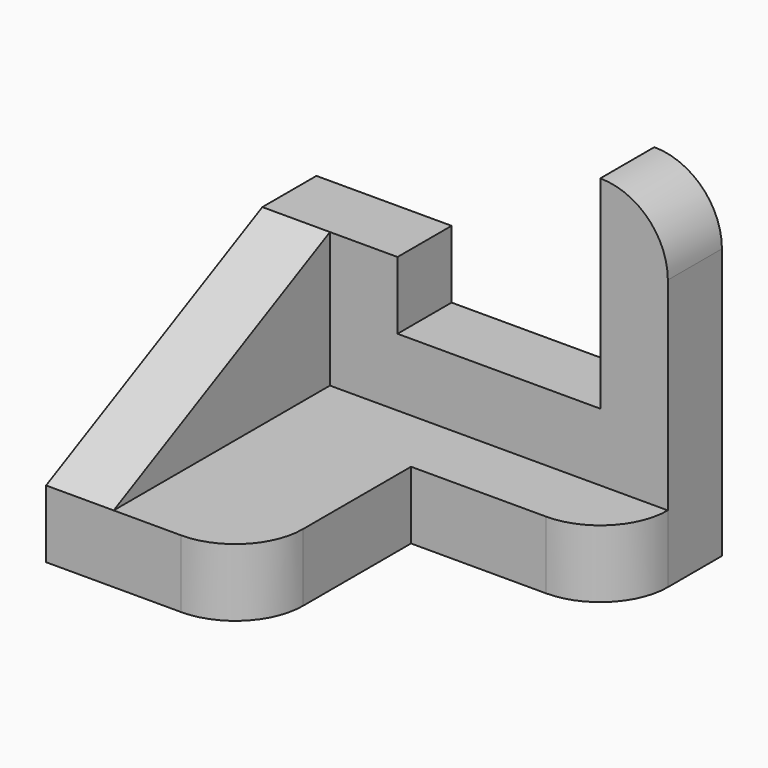
from build123d import *

# Parameters (mm, degrees)
PAD_DEPTH    = 10
PAD001_DEPTH = 10
FILLET_R     = 9.99
PAD002_DEPTH = 10
FILLET001_R  = 10


with BuildPart() as part:
    # Sketch → Pad (new body)
    with BuildSketch(Plane.XY):
        with BuildLine():
            Line((-15, 50), (-15, 0))
            Line((-15, 0), (15, 0))
            Line((15, 0), (15, 30))
            Line((15, 30), (35, 30))
            ThreePointArc((35, 30), (42.071068, 32.928932), (45, 40))
            Line((45, 40), (45, 50))
            Line((45, 50), (-15, 50))
        make_face()
    extrude(amount=PAD_DEPTH)

    # Sketch001 (on Face7 of Pad) → Pad001 (join)
    with BuildSketch(Plane(origin=(0, 50, 0), x_dir=(-1, 0, 0), z_dir=(0, 1, 0))):
        Polygon((-45, 10), (-45, 50), (-35, 50), (-35, 20), (-5, 20), (-5, 30), (15, 30), (15, 10), align=None)
    extrude(amount=-PAD001_DEPTH)

    # Fillet
    fillet_edges = [part.edges().sort_by_distance(p)[0] for p in [
        (45, 45, 50),
    ]]
    fillet(fillet_edges, radius=FILLET_R)

    # Sketch002 (on Face6 of Fillet) → Pad002 (join)
    with BuildSketch(Plane(origin=(-15, 0, 0), x_dir=(0, -1, 0), z_dir=(-1, 0, 0))):
        Polygon((-40, 30), (0, 10), (-40, 10), align=None)
    extrude(amount=-PAD002_DEPTH)

    # Fillet001
    fillet001_edges = [part.edges().sort_by_distance(p)[0] for p in [
        (15, 0, 5),
    ]]
    fillet(fillet001_edges, radius=FILLET001_R)


solid = part.part
